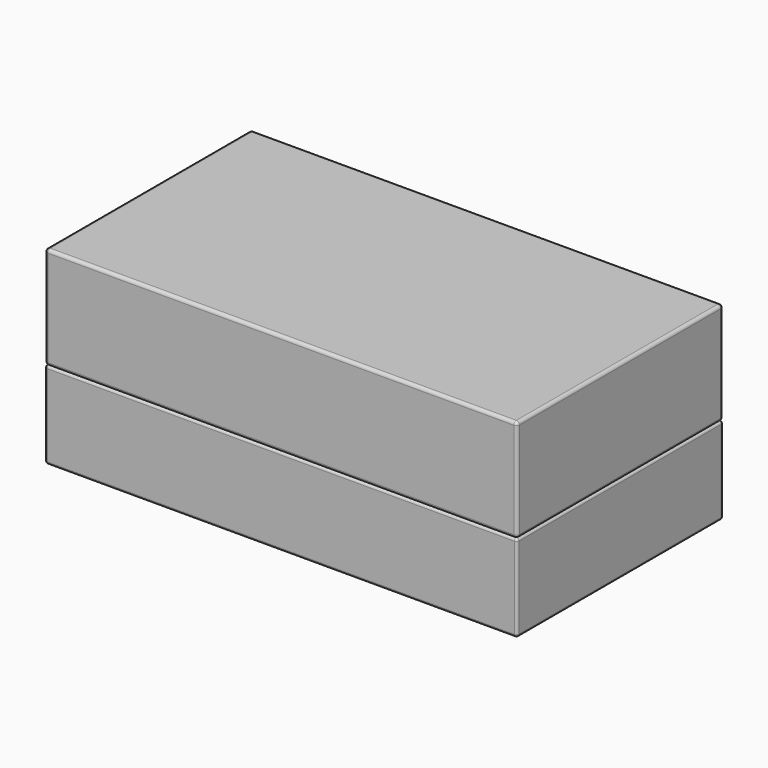
from build123d import *

# Parameters (mm, degrees)
F0_W     = 965.2
F0_H     = 527.05
F1_DEPTH = 209.55
F2_R     = 6.35
F3_W     = 965.2
F3_H     = 527.05
F4_DEPTH = 177.8
F5_R     = 5.08


with BuildPart() as f1:
    # F0 (on Top) → F1 (new body)
    with BuildSketch(Plane.XY):
        with Locations((482.6, 263.525)):
            Rectangle(F0_W, F0_H)
    extrude(amount=F1_DEPTH)

    # F2
    f2_edges = [f1.edges().sort_by_distance(p)[0] for p in [
        (482.6, 0, 0),
        (965.2, 263.525, 0),
        (482.6, 527.05, 0),
        (0, 263.525, 0),
        (482.6, 527.05, 209.55),
        (965.2, 263.525, 209.55),
        (965.2, 527.05, 104.775),
        (965.2, 0, 104.775),
        (482.6, 0, 209.55),
        (0, 263.525, 209.55),
        (0, 0, 104.775),
        (0, 527.05, 104.775),
    ]]
    fillet(f2_edges, radius=F2_R)

    # F3 (on face) → F4 (join)
    with BuildSketch(Plane(origin=(0, 0, 0), x_dir=(1, 0, 0), z_dir=(0, 0, -1))):
        with Locations((482.6, -263.525)):
            Rectangle(F3_W, F3_H)
    extrude(amount=F4_DEPTH)

    # F5
    f5_edges = [f1.edges().sort_by_distance(p)[0] for p in [
        (482.6, 527.05, -177.8),
        (965.2, 263.525, -177.8),
        (482.6, 0, -177.8),
        (0, 263.525, -177.8),
        (965.2, 0, -88.9),
        (0, 0, -88.9),
        (482.6, 0, 0),
        (965.2, 527.05, -88.9),
        (965.2, 263.525, 0),
        (0, 527.05, -88.9),
        (482.6, 527.05, 0),
        (0, 263.525, 0),
    ]]
    fillet(f5_edges, radius=F5_R)


solid = f1.part
